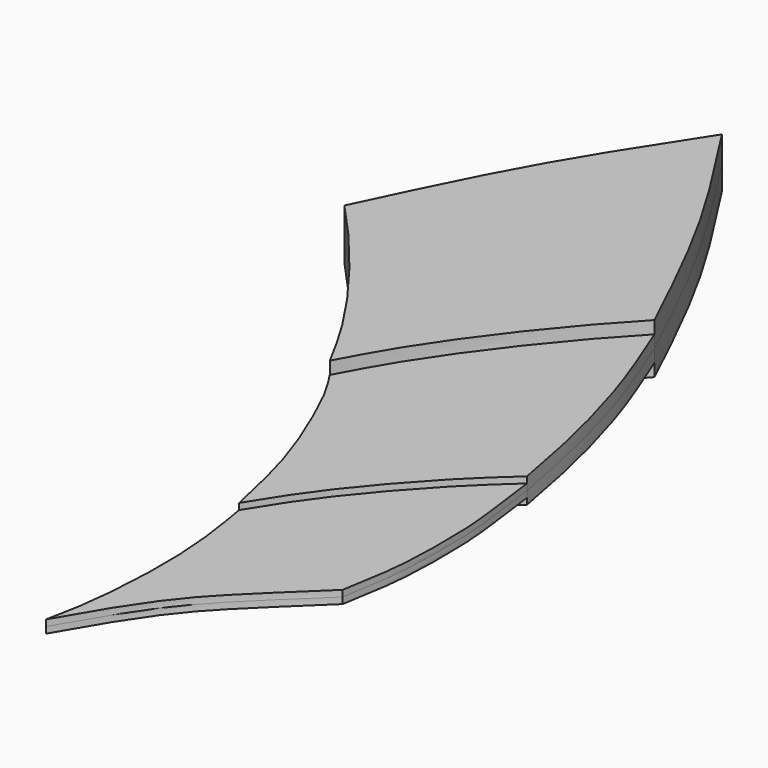
from build123d import *

# Parameters (mm, degrees)
F3_DEPTH = 0.5
F4_DEPTH = 0.25
F5_DEPTH = 0.125


with BuildPart() as f3:
    # F0 (on Top) → F3 (new body, symmetric)
    with BuildSketch(Plane.XY):
        with BuildLine():
            add(Edge.make_bspline(
                [(33.4646962583, -17.3531565815), (34.0183108685, -18.2014548185), (35.1449052053, -19.9277242701), (36.0757257814, -21.8882678628), (36.5491360426, -22.885389626)],
                knots=[0, 0, 0, 0, 0.4914054617, 1, 1, 1, 1], degree=3))
            Line((33.4646962583, -17.3531565815), (33.4646962583, -27.1025765687))
            add(Edge.make_bspline(
                [(36.5491360426, -22.885389626), (36.3445585773, -23.1038442345), (35.8796853463, -23.6002513022), (34.9096324661, -24.7869173938), (34.0141321874, -26.0750864021), (33.6374846111, -26.7794482037), (33.4646962583, -27.1025765687)],
                knots=[0, 0, 0, 0, 0.2146146816, 0.4876813793, 0.7649720955, 1, 1, 1, 1], degree=3))
        make_face()
        with BuildLine():
            Line((33.4646962583, -27.1025765687), (33.4646962583, -17.3531565815))
            add(Edge.make_bspline(
                [(33.4646962583, -17.3531565815), (32.9110816481, -18.2014548185), (31.7844873114, -19.9277242701), (30.8536667352, -21.8882678628), (30.380256474, -22.885389626)],
                knots=[0, 0, 0, 0, 0.4914054617, 1, 1, 1, 1], degree=3))
            add(Edge.make_bspline(
                [(30.380256474, -22.885389626), (30.5848339393, -23.1038442345), (31.0497071704, -23.6002513022), (32.0197600505, -24.7869173938), (32.9152603292, -26.0750864021), (33.2919079055, -26.7794482037), (33.4646962583, -27.1025765687)],
                knots=[0, 0, 0, 0, 0.2146146816, 0.4876813793, 0.7649720955, 1, 1, 1, 1], degree=3))
        make_face()
    extrude(amount=F3_DEPTH, both=True)

    # F1 (on Top) → F4 (join, symmetric)
    with BuildSketch(Plane.XY):
        with BuildLine():
            add(Edge.make_bspline(
                [(35.0542590022, -31.3443131745), (34.9321986711, -30.7857678371), (34.6969077554, -29.7078948129), (34.132815237, -28.3447046876), (33.7753301671, -27.5824159663), (33.5594348558, -27.2516943021), (33.4646962583, -27.1025765687)],
                knots=[0, 0, 0, 0, 0.3133220633, 0.6043357393, 0.8223308356, 1, 1, 1, 1], degree=3))
            add(Edge.make_bspline(
                [(35.0542590022, -31.3443131745), (35.2772294367, -30.9821031837), (35.7692332915, -30.1828550139), (37.0790252489, -28.6734392692), (37.7096471433, -28.1030367575), (37.986304611, -27.8527978808)],
                knots=[0, 0, 0, 0, 0.3174952829, 0.7005812383, 1, 1, 1, 1], degree=3))
            add(Edge.make_bspline(
                [(37.986304611, -27.8527978808), (37.8913761068, -27.3386059194), (37.6895959259, -26.2568236513), (37.1813869776, -24.4473320709), (36.7453139366, -23.3831491328), (36.5491360426, -22.885389626)],
                knots=[0, 0, 0, 0, 0.3227170226, 0.6711723471, 1, 1, 1, 1], degree=3))
            add(Edge.make_bspline(
                [(36.5491360426, -22.885389626), (36.3445585773, -23.1038442345), (35.8796853463, -23.6002513022), (34.9096324661, -24.7869173938), (34.0141321874, -26.0750864021), (33.6374846111, -26.7794482037), (33.4646962583, -27.1025765687)],
                knots=[0, 0, 0, 0, 0.2146146816, 0.4876813793, 0.7649720955, 1, 1, 1, 1], degree=3))
        make_face()
    extrude(amount=F4_DEPTH, both=True)

    # F2 (on Top) → F5 (join, symmetric)
    with BuildSketch(Plane.XY):
        with BuildLine():
            add(Edge.make_bspline(
                [(35.0099876523, -36.0890328884), (35.0691884535, -35.8017616591), (35.2086991521, -35.1286773781), (35.3078029344, -33.4406536261), (35.206077093, -32.2005833036), (35.0939553855, -31.6004826678), (35.0542590022, -31.3443131745)],
                knots=[0, 0, 0, 0, 0.2268047855, 0.5281413876, 0.7889814592, 1, 1, 1, 1], degree=3))
            add(Edge.make_bspline(
                [(35.0099876523, -36.0890328884), (35.1785122203, -35.7952578593), (35.5196858817, -35.1968595796), (36.1572480721, -34.2428839294), (36.8370476627, -33.5371282988), (37.5739759872, -32.8287365687), (37.8503923319, -32.5516161451), (37.986304611, -32.4345082045)],
                knots=[0, 0, 0, 0, 0.2099201912, 0.43002195, 0.637960627, 0.8451293142, 1, 1, 1, 1], degree=3))
            add(Edge.make_bspline(
                [(37.986304611, -32.4345082045), (38.0349117761, -32.091378108), (38.1858021608, -31.3817408763), (38.2103824602, -30.2099574058), (38.1870733454, -29.2358358547), (38.0405633584, -28.3246195438), (37.986304611, -27.8527978808)],
                knots=[0, 0, 0, 0, 0.2419441986, 0.4924070964, 0.724101854, 1, 1, 1, 1], degree=3))
            add(Edge.make_bspline(
                [(35.0542590022, -31.3443131745), (35.2772294367, -30.9821031837), (35.7692332915, -30.1828550139), (37.0790252489, -28.6734392692), (37.7096471433, -28.1030367575), (37.986304611, -27.8527978808)],
                knots=[0, 0, 0, 0, 0.3174952829, 0.7005812383, 1, 1, 1, 1], degree=3))
        make_face()
    extrude(amount=F5_DEPTH, both=True)


solid = f3.part
